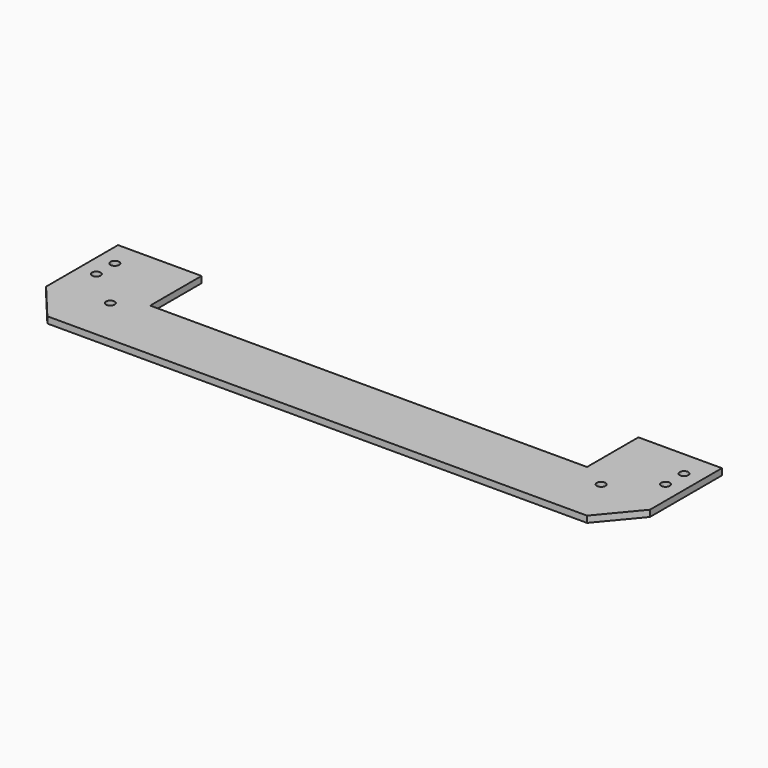
from build123d import *

# Parameters (mm, degrees)
F0_R     = 3.35
F1_DEPTH = 5


with BuildPart() as f1:
    # F0 (on Top) → F1 (new body)
    with BuildSketch(Plane.XY):
        Polygon((-235, 30), (-210, 0), (0, 0), (210, 0), (235, 30), (235, 100), (170, 100), (170, 50), (0, 50), (-170, 50), (-170, 100), (-235, 100), align=None)
        with Locations((-191, 37.5)):
            Circle(F0_R, mode=Mode.SUBTRACT)
        with Locations((191, 37.5)):
            Circle(F0_R, mode=Mode.SUBTRACT)
        with Locations((-221.5, 62)):
            Circle(F0_R, mode=Mode.SUBTRACT)
        with Locations((-221.5, 80)):
            Circle(F0_R, mode=Mode.SUBTRACT)
        with Locations((221.5, 62)):
            Circle(F0_R, mode=Mode.SUBTRACT)
        with Locations((221.5, 80)):
            Circle(F0_R, mode=Mode.SUBTRACT)
    extrude(amount=F1_DEPTH)


solid = f1.part
